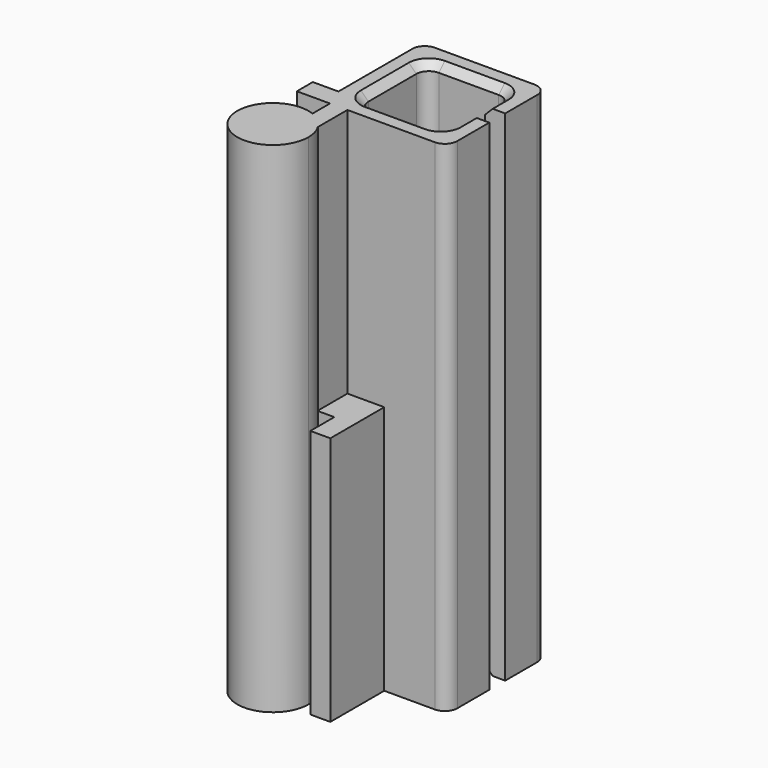
from build123d import *

# Parameters (mm, degrees)
F0_W     = 2.05
F0_H     = 1.6
F1_DEPTH = 40
F2_DEPTH = 20
F3_R     = 1
F4_SIZE  = 0.6


with BuildPart() as f1:
    # F0 (on Top) → F1 (new body)
    with BuildSketch(Plane.XY):
        Polygon((0.45, 6), (0.45, 4.4), (1.05, 4.4), (2.45, 4.4), (3.8, 4.4), (5.4, 4.4), (10.45, 4.4), (10.45, 8.6023478262), (8.85, 8.6023478262), (8.85, 6), (2.05, 6), (2.05, 12.8), (8.85, 12.8), (8.85, 10.1976521738), (10.45, 10.1976521738), (10.45, 14.4), (0.45, 14.4), align=None)
        with BuildLine():
            Line((2.45, 1.4), (2.45, 1.4560219779))
            ThreePointArc((2.45, 1.4560219779), (1.8489495156, 2.168844321), (1.05, 2.6495282599))
            Line((1.05, 2.6495282599), (0.45, 2.6495282599))
            Line((0.45, 2.6495282599), (0.45, 0))
            Line((0.45, 0), (2.45, 0))
            Line((2.45, 0), (2.45, 1.4))
        make_face()
        with BuildLine():
            ThreePointArc((0.45, 2.8142494559), (-2.1685248442, -1.8493242009), (2.85, 0))
            ThreePointArc((2.85, 0), (2.756578423, 0.723723288), (2.4824383175, 1.4))
            Line((2.4824383175, 1.4), (2.45, 1.4))
            Line((2.45, 1.4), (2.45, 0))
            Line((2.45, 0), (0.45, 0))
            Line((0.45, 0), (0.45, 2.6495282599))
            Line((0.45, 2.6495282599), (0.45, 2.8142494559))
        make_face()
        with BuildLine():
            ThreePointArc((1.05, 2.6495282599), (1.8489495156, 2.168844321), (2.45, 1.4560219779))
            Line((2.45, 1.4560219779), (2.45, 4.4))
            Line((2.45, 4.4), (1.05, 4.4))
            Line((1.05, 4.4), (1.05, 2.6495282599))
        make_face()
        with BuildLine():
            ThreePointArc((1.05, 2.6495282599), (0.7545086269, 2.7483116148), (0.45, 2.8142494559))
            Line((0.45, 2.8142494559), (0.45, 2.6495282599))
            Line((0.45, 2.6495282599), (1.05, 2.6495282599))
        make_face()
        with Locations((-0.575, 5.2)):
            Rectangle(F0_W, F0_H)
    extrude(amount=F1_DEPTH)

    # F0 (on Top) → F2 (join)
    with BuildSketch(Plane.XY):
        Polygon((3.8, 4.4), (3.8, 1.4), (3.8, -1), (5.4, -1), (5.4, 4.4), align=None)
        with BuildLine():
            Line((2.45, 1.4), (2.4824383175, 1.4))
            ThreePointArc((2.4824383175, 1.4), (2.4663782261, 1.4281030935), (2.45, 1.4560219779))
            Line((2.45, 1.4560219779), (2.45, 1.4))
        make_face()
        with BuildLine():
            ThreePointArc((2.45, 1.4560219779), (2.4663782261, 1.4281030935), (2.4824383175, 1.4))
            Line((2.4824383175, 1.4), (3.8, 1.4))
            Line((3.8, 1.4), (3.8, 4.4))
            Line((3.8, 4.4), (2.45, 4.4))
            Line((2.45, 4.4), (2.45, 1.4560219779))
        make_face()
        with BuildLine():
            ThreePointArc((2.45, 1.4560219779), (2.4663782261, 1.4281030935), (2.4824383175, 1.4))
            Line((2.4824383175, 1.4), (3.8, 1.4))
            Line((3.8, 1.4), (3.8, 4.4))
            Line((3.8, 4.4), (2.45, 4.4))
            Line((2.45, 4.4), (2.45, 1.4560219779))
        make_face()
    extrude(amount=F2_DEPTH)

    # F3
    f3_edges = [f1.edges().sort_by_distance(p)[0] for p in [
        (10.45, 14.4, 20),
        (0.45, 14.4, 20),
        (10.45, 4.4, 20),
        (2.05, 12.8, 20),
        (8.85, 12.8, 20),
        (8.85, 6, 20),
        (2.05, 6, 20),
    ]]
    fillet(f3_edges, radius=F3_R)

    # F4
    f4_edges = [f1.edges().sort_by_distance(p)[0] for p in [
        (2.05, 9.4, 40),
        (5.45, 6, 0),
    ]]
    chamfer(f4_edges, length=F4_SIZE)


solid = f1.part
